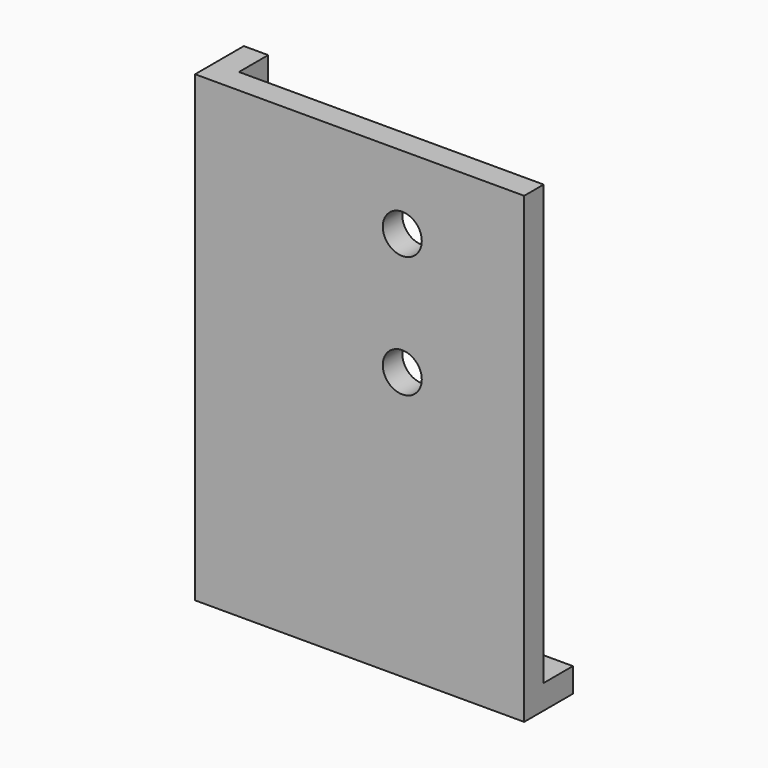
from build123d import *

# Parameters (mm, degrees)
CYLINDER020_R     = 1.6
CYLINDER020_DEPTH = 10
CYLINDER019_R     = 1.6
CYLINDER019_DEPTH = 10
BOX013_W          = 32
BOX013_H          = 5
BOX013_DEPTH      = 38
BOX012_W          = 27
BOX012_H          = 5
BOX012_DEPTH      = 38


with BuildPart() as cylinder020:
    # Cylinder020 → Cylinder020 (new body)
    with BuildSketch(Plane(origin=(25, 0, 15), x_dir=(1, 0, 0), z_dir=(0, -1, 0))):
        Circle(CYLINDER020_R)
    extrude(amount=CYLINDER020_DEPTH)


with BuildPart() as fusion007002:
    # Cylinder019 → Cylinder019 (new body)
    with BuildSketch(Plane(origin=(25, 0, 5), x_dir=(1, 0, 0), z_dir=(0, -1, 0))):
        Circle(CYLINDER019_R)
    extrude(amount=CYLINDER019_DEPTH)

    # Fusion007002: union Cylinder020
    add(cylinder020.part)


with BuildPart() as fusion007002_1:
    # Fusion007002 placement: moved
    add(fusion007002.part.moved(Location((0, 5, 0))))


with BuildPart() as cube010:
    # Box013 → Box013 (new body)
    with BuildSketch(Plane(origin=(10, 2, -15), x_dir=(1, 0, 0), z_dir=(0, 0, 1))):
        with Locations((16, 2.5)):
            Rectangle(BOX013_W, BOX013_H)
    extrude(amount=BOX013_DEPTH)


with BuildPart() as obj1:
    # Box012 → Box012 (new body)
    with BuildSketch(Plane(origin=(8, 0, -17), x_dir=(1, 0, 0), z_dir=(0, 0, 1))):
        with Locations((13.5, 2.5)):
            Rectangle(BOX012_W, BOX012_H)
    extrude(amount=BOX012_DEPTH)

    # Cut003010: cut Cube010
    add(cube010.part, mode=Mode.SUBTRACT)

    # Cut003011: cut Fusion007002
    add(fusion007002_1.part, mode=Mode.SUBTRACT)


with BuildPart() as obj1_1:
    # Cut003011 placement: moved
    add(obj1.part.moved(Location((-38, -5, 15))))


solid = obj1_1.part
